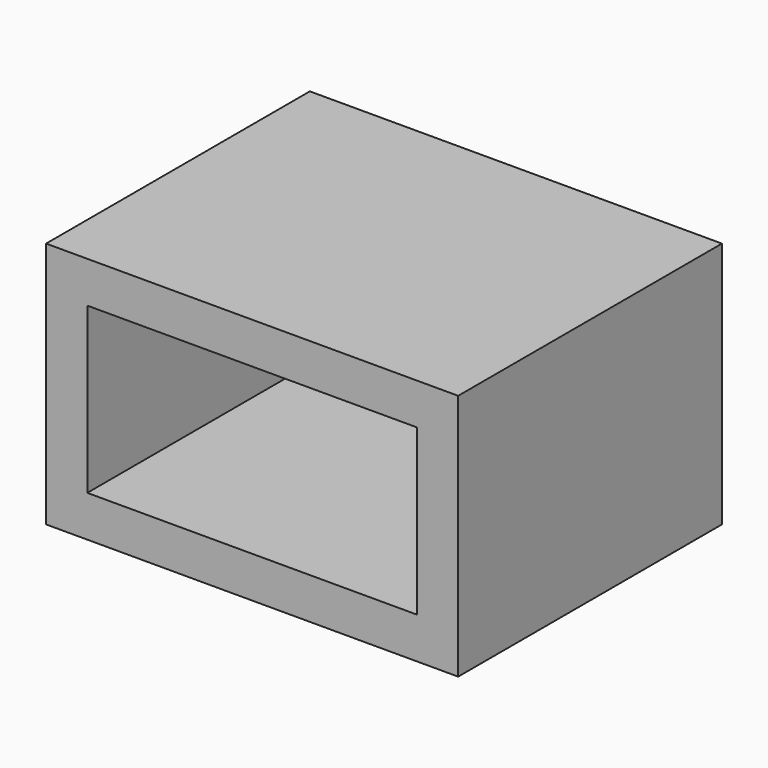
from build123d import *

# Parameters (mm, degrees)
F1_DEPTH = 25.4
F2_DEPTH = 25.4


with BuildPart() as f1:
    # F0 (on Front) → F1 (new body)
    with BuildSketch(Plane.XZ):
        Polygon((-30.460854, 2.246414), (-36.810854, 8.596414), (-87.610854, 8.596414), (-93.960854, 2.246414), align=None)
        Polygon((-36.810854, 33.996414), (-36.810854, 8.596414), (-30.460854, 2.246414), (-30.460854, 40.346414), align=None)
        Polygon((-93.960854, 2.246414), (-87.610854, 8.596414), (-87.610854, 33.996414), (-93.960854, 40.346414), align=None)
        Polygon((-87.610854, 33.996414), (-36.810854, 33.996414), (-30.460854, 40.346414), (-93.960854, 40.346414), align=None)
    extrude(amount=F1_DEPTH)

    # F0 (on Front) → F2 (join)
    with BuildSketch(Plane.XZ):
        Polygon((-30.460854, 2.246414), (-36.810854, 8.596414), (-87.610854, 8.596414), (-93.960854, 2.246414), align=None)
        Polygon((-36.810854, 33.996414), (-36.810854, 8.596414), (-30.460854, 2.246414), (-30.460854, 40.346414), align=None)
        Polygon((-93.960854, 2.246414), (-87.610854, 8.596414), (-87.610854, 33.996414), (-93.960854, 40.346414), align=None)
        Polygon((-87.610854, 33.996414), (-36.810854, 33.996414), (-30.460854, 40.346414), (-93.960854, 40.346414), align=None)
    extrude(amount=-F2_DEPTH)


solid = f1.part
